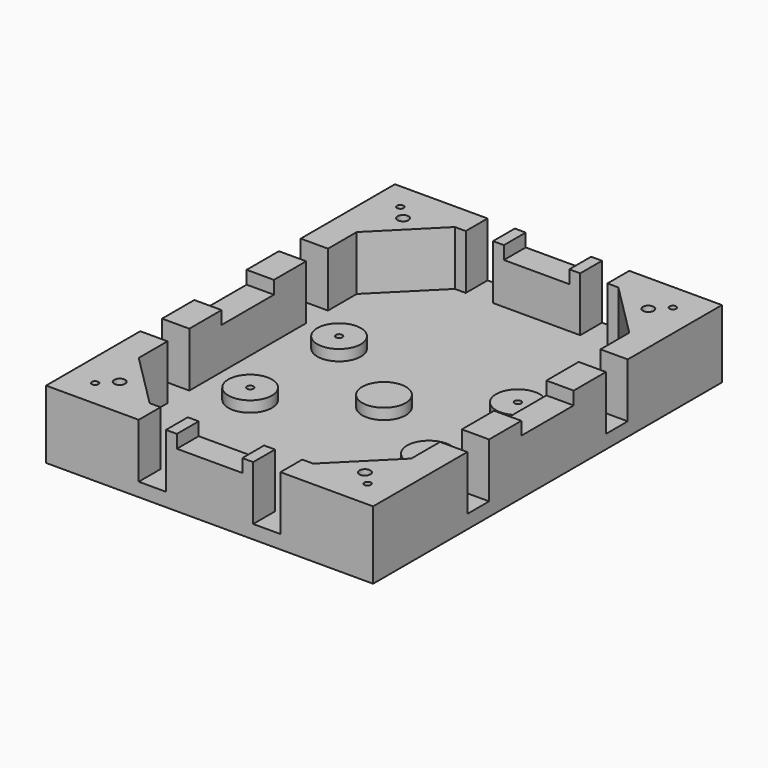
from build123d import *

# Parameters (mm, degrees)
F0_R     = 10
F0_R_2   = 1.5
F0_R_3   = 2.5
F0_W     = 30
F0_H     = 6.25
F0_W_2   = 6.25
F0_H_2   = 30
F0_H_3   = 18.5
F0_H_4   = 12.5
F0_W_3   = 12.5
F0_W_4   = 5
F1_DEPTH = 6.25
F2_DEPTH = 11.25
F3_DEPTH = 31.25
F4_DEPTH = 25.25


with BuildPart() as f1:
    # F0 (on Top) → F1 (new body)
    with BuildSketch(Plane.XY):
        Polygon((-20, 87.5), (-32.5, 87.5), (-37.5, 87.5), (-62.5, 62.5), (-62.5, 46), (-62.5, 33.5), (-62.5, 15), (-62.5, -15), (-62.5, -33.5), (-62.5, -46), (-62.5, -62.5), (-37.5, -87.5), (-32.5, -87.5), (-20, -87.5), (-15, -87.5), (15, -87.5), (20, -87.5), (32.5, -87.5), (37.5, -87.5), (62.5, -62.5), (62.5, -46), (62.5, -33.5), (62.5, -15), (62.5, 15), (62.5, 33.5), (62.5, 46), (62.5, 62.5), (37.5, 87.5), (32.5, 87.5), (20, 87.5), (15, 87.5), (-15, 87.5), align=None)
        with Locations((-41, -25.5)):
            Circle(F0_R, mode=Mode.SUBTRACT)
        with Locations((41, -25.5)):
            Circle(F0_R, mode=Mode.SUBTRACT)
        with Locations((-41, 25.5)):
            Circle(F0_R, mode=Mode.SUBTRACT)
        Circle(F0_R, mode=Mode.SUBTRACT)
        with Locations((41, 25.5)):
            Circle(F0_R, mode=Mode.SUBTRACT)
        Polygon((75, -100), (75, -46), (68.75, -46), (68.75, -93.75), (32.5, -93.75), (32.5, -100), align=None)
        Polygon((75, 100), (32.5, 100), (32.5, 93.75), (68.75, 93.75), (68.75, 46), (75, 46), align=None)
        Polygon((-32.5, 100), (-75, 100), (-75, 46), (-68.75, 46), (-68.75, 93.75), (-32.5, 93.75), align=None)
        Polygon((-68.75, -46), (-75, -46), (-75, -100), (-32.5, -100), (-32.5, -93.75), (-68.75, -93.75), align=None)
        with BuildLine():
            Line((-32.5, 87.5), (-32.5, 93.75))
            Line((-32.5, 93.75), (-68.75, 93.75))
            Line((-68.75, 93.75), (-68.75, 46))
            Line((-68.75, 46), (-62.5, 46))
            Line((-62.5, 46), (-62.5, 62.5))
            Line((-62.5, 62.5), (-62.5, 86))
            ThreePointArc((-62.5, 86), (-63.5606601718, 88.5606601718), (-61, 87.5))
            Line((-61, 87.5), (-37.5, 87.5))
            Line((-37.5, 87.5), (-32.5, 87.5))
        make_face()
        with BuildLine():
            Line((-62.5, -46), (-68.75, -46))
            Line((-68.75, -46), (-68.75, -93.75))
            Line((-68.75, -93.75), (-32.5, -93.75))
            Line((-32.5, -93.75), (-32.5, -87.5))
            Line((-32.5, -87.5), (-37.5, -87.5))
            Line((-37.5, -87.5), (-61, -87.5))
            ThreePointArc((-61, -87.5), (-63.5606601718, -88.5606601718), (-62.5, -86))
            Line((-62.5, -86), (-62.5, -62.5))
            Line((-62.5, -62.5), (-62.5, -46))
        make_face()
        with BuildLine():
            Line((68.75, 93.75), (32.5, 93.75))
            Line((32.5, 93.75), (32.5, 87.5))
            Line((32.5, 87.5), (37.5, 87.5))
            Line((37.5, 87.5), (61, 87.5))
            ThreePointArc((61, 87.5), (62.5, 89), (64, 87.5))
            ThreePointArc((64, 87.5), (63.5606601718, 86.4393398282), (62.5, 86))
            Line((62.5, 86), (62.5, 62.5))
            Line((62.5, 62.5), (62.5, 46))
            Line((62.5, 46), (68.75, 46))
            Line((68.75, 46), (68.75, 93.75))
        make_face()
        with BuildLine():
            Line((68.75, -93.75), (68.75, -46))
            Line((68.75, -46), (62.5, -46))
            Line((62.5, -46), (62.5, -62.5))
            Line((62.5, -62.5), (62.5, -86))
            ThreePointArc((62.5, -86), (63.5606601718, -86.4393398282), (64, -87.5))
            ThreePointArc((64, -87.5), (62.5, -89), (61, -87.5))
            Line((61, -87.5), (37.5, -87.5))
            Line((37.5, -87.5), (32.5, -87.5))
            Line((32.5, -87.5), (32.5, -93.75))
            Line((32.5, -93.75), (68.75, -93.75))
        make_face()
        with Locations((41, -25.5)):
            Circle(F0_R)
        with Locations((41, -25.5)):
            Circle(F0_R_2, mode=Mode.SUBTRACT)
        with Locations((-41, -25.5)):
            Circle(F0_R)
        with Locations((-41, -25.5)):
            Circle(F0_R_2, mode=Mode.SUBTRACT)
        with Locations((-41, 25.5)):
            Circle(F0_R)
        with Locations((-41, 25.5)):
            Circle(F0_R_2, mode=Mode.SUBTRACT)
        with Locations((41, 25.5)):
            Circle(F0_R)
        with Locations((41, 25.5)):
            Circle(F0_R_2, mode=Mode.SUBTRACT)
        Circle(F0_R)
        with BuildLine():
            Line((62.5, -86), (62.5, -62.5))
            Line((62.5, -62.5), (37.5, -87.5))
            Line((37.5, -87.5), (61, -87.5))
            ThreePointArc((61, -87.5), (61.4393398282, -86.4393398282), (62.5, -86))
        make_face()
        with Locations((56.25, -81.25)):
            Circle(F0_R_3, mode=Mode.SUBTRACT)
        with BuildLine():
            Line((-37.5, -87.5), (-62.5, -62.5))
            Line((-62.5, -62.5), (-62.5, -86))
            ThreePointArc((-62.5, -86), (-61.4393398282, -86.4393398282), (-61, -87.5))
            Line((-61, -87.5), (-37.5, -87.5))
        make_face()
        with Locations((-56.25, -81.25)):
            Circle(F0_R_3, mode=Mode.SUBTRACT)
        with BuildLine():
            Line((61, 87.5), (37.5, 87.5))
            Line((37.5, 87.5), (62.5, 62.5))
            Line((62.5, 62.5), (62.5, 86))
            ThreePointArc((62.5, 86), (61.4393398282, 86.4393398282), (61, 87.5))
        make_face()
        with Locations((56.25, 81.25)):
            Circle(F0_R_3, mode=Mode.SUBTRACT)
        with BuildLine():
            Line((-62.5, 62.5), (-37.5, 87.5))
            Line((-37.5, 87.5), (-61, 87.5))
            ThreePointArc((-61, 87.5), (-61.4393398282, 86.4393398282), (-62.5, 86))
            Line((-62.5, 86), (-62.5, 62.5))
        make_face()
        with Locations((-56.25, 81.25)):
            Circle(F0_R_3, mode=Mode.SUBTRACT)
        with Locations((0, -90.625)):
            Rectangle(F0_W, F0_H)
        with Locations((-71.875, 0)):
            Rectangle(F0_W_2, F0_H_2)
        with Locations((71.875, 0)):
            Rectangle(F0_W_2, F0_H_2)
        with Locations((0, 90.625)):
            Rectangle(F0_W, F0_H)
        with Locations((-65.625, 0)):
            Rectangle(F0_W_2, F0_H_2)
        with Locations((0, -96.875)):
            Rectangle(F0_W, F0_H)
        with Locations((65.625, 0)):
            Rectangle(F0_W_2, F0_H_2)
        with Locations((0, 96.875)):
            Rectangle(F0_W, F0_H)
        with Locations((71.875, -24.25)):
            Rectangle(F0_W_2, F0_H_3)
        with Locations((-71.875, 24.25)):
            Rectangle(F0_W_2, F0_H_3)
        with Locations((-65.625, -24.25)):
            Rectangle(F0_W_2, F0_H_3)
        with Locations((65.625, -24.25)):
            Rectangle(F0_W_2, F0_H_3)
        with Locations((65.625, 24.25)):
            Rectangle(F0_W_2, F0_H_3)
        with Locations((71.875, 24.25)):
            Rectangle(F0_W_2, F0_H_3)
        with Locations((-71.875, -24.25)):
            Rectangle(F0_W_2, F0_H_3)
        with Locations((-65.625, 24.25)):
            Rectangle(F0_W_2, F0_H_3)
        with Locations((-71.875, 39.75)):
            Rectangle(F0_W_2, F0_H_4)
        with Locations((-71.875, -39.75)):
            Rectangle(F0_W_2, F0_H_4)
        with Locations((26.25, 96.875)):
            Rectangle(F0_W_3, F0_H)
        with Locations((-26.25, -96.875)):
            Rectangle(F0_W_3, F0_H)
        with Locations((-26.25, 90.625)):
            Rectangle(F0_W_3, F0_H)
        with Locations((-65.625, -39.75)):
            Rectangle(F0_W_2, F0_H_4)
        with Locations((-26.25, -90.625)):
            Rectangle(F0_W_3, F0_H)
        with Locations((-65.625, 39.75)):
            Rectangle(F0_W_2, F0_H_4)
        with Locations((65.625, 39.75)):
            Rectangle(F0_W_2, F0_H_4)
        with Locations((26.25, -96.875)):
            Rectangle(F0_W_3, F0_H)
        with Locations((26.25, 90.625)):
            Rectangle(F0_W_3, F0_H)
        with Locations((71.875, -39.75)):
            Rectangle(F0_W_2, F0_H_4)
        with Locations((26.25, -90.625)):
            Rectangle(F0_W_3, F0_H)
        with Locations((-26.25, 96.875)):
            Rectangle(F0_W_3, F0_H)
        with Locations((65.625, -39.75)):
            Rectangle(F0_W_2, F0_H_4)
        with Locations((71.875, 39.75)):
            Rectangle(F0_W_2, F0_H_4)
        with Locations((-17.5, -96.875)):
            Rectangle(F0_W_4, F0_H)
        with Locations((17.5, 96.875)):
            Rectangle(F0_W_4, F0_H)
        with Locations((-17.5, -90.625)):
            Rectangle(F0_W_4, F0_H)
        with Locations((-17.5, 90.625)):
            Rectangle(F0_W_4, F0_H)
        with Locations((17.5, -90.625)):
            Rectangle(F0_W_4, F0_H)
        with Locations((-17.5, 96.875)):
            Rectangle(F0_W_4, F0_H)
        with Locations((17.5, 90.625)):
            Rectangle(F0_W_4, F0_H)
        with Locations((17.5, -96.875)):
            Rectangle(F0_W_4, F0_H)
        with Locations((56.25, -81.25)):
            Circle(F0_R_3)
        with Locations((-56.25, -81.25)):
            Circle(F0_R_3)
        with Locations((-56.25, 81.25)):
            Circle(F0_R_3)
        with Locations((56.25, 81.25)):
            Circle(F0_R_3)
        with Locations((-41, 25.5)):
            Circle(F0_R_2)
        with Locations((-41, -25.5)):
            Circle(F0_R_2)
        with Locations((41, 25.5)):
            Circle(F0_R_2)
        with Locations((41, -25.5)):
            Circle(F0_R_2)
        with BuildLine():
            ThreePointArc((64, 87.5), (62.5, 89), (61, 87.5))
            Line((61, 87.5), (62.5, 87.5))
            Line((62.5, 87.5), (62.5, 86))
            ThreePointArc((62.5, 86), (63.5606601718, 86.4393398282), (64, 87.5))
        make_face()
        with BuildLine():
            Line((-62.5, 87.5), (-61, 87.5))
            ThreePointArc((-61, 87.5), (-63.5606601718, 88.5606601718), (-62.5, 86))
            Line((-62.5, 86), (-62.5, 87.5))
        make_face()
        with BuildLine():
            ThreePointArc((64, -87.5), (63.5606601718, -86.4393398282), (62.5, -86))
            Line((62.5, -86), (62.5, -87.5))
            Line((62.5, -87.5), (61, -87.5))
            ThreePointArc((61, -87.5), (62.5, -89), (64, -87.5))
        make_face()
        with BuildLine():
            Line((-62.5, -87.5), (-62.5, -86))
            ThreePointArc((-62.5, -86), (-63.5606601718, -88.5606601718), (-61, -87.5))
            Line((-61, -87.5), (-62.5, -87.5))
        make_face()
        with BuildLine():
            ThreePointArc((-62.5, 86), (-61.4393398282, 86.4393398282), (-61, 87.5))
            Line((-61, 87.5), (-62.5, 87.5))
            Line((-62.5, 87.5), (-62.5, 86))
        make_face()
        with BuildLine():
            Line((62.5, -87.5), (62.5, -86))
            ThreePointArc((62.5, -86), (61.4393398282, -86.4393398282), (61, -87.5))
            Line((61, -87.5), (62.5, -87.5))
        make_face()
        with BuildLine():
            ThreePointArc((-61, -87.5), (-61.4393398282, -86.4393398282), (-62.5, -86))
            Line((-62.5, -86), (-62.5, -87.5))
            Line((-62.5, -87.5), (-61, -87.5))
        make_face()
        with BuildLine():
            Line((62.5, 87.5), (61, 87.5))
            ThreePointArc((61, 87.5), (61.4393398282, 86.4393398282), (62.5, 86))
            Line((62.5, 86), (62.5, 87.5))
        make_face()
    extrude(amount=F1_DEPTH)

    # F0 (on Top) → F2 (join)
    with BuildSketch(Plane.XY):
        with Locations((-41, 25.5)):
            Circle(F0_R)
        with Locations((-41, 25.5)):
            Circle(F0_R_2, mode=Mode.SUBTRACT)
        with Locations((41, 25.5)):
            Circle(F0_R)
        with Locations((41, 25.5)):
            Circle(F0_R_2, mode=Mode.SUBTRACT)
        Circle(F0_R)
        with Locations((41, -25.5)):
            Circle(F0_R)
        with Locations((41, -25.5)):
            Circle(F0_R_2, mode=Mode.SUBTRACT)
        with Locations((-41, -25.5)):
            Circle(F0_R)
        with Locations((-41, -25.5)):
            Circle(F0_R_2, mode=Mode.SUBTRACT)
    extrude(amount=F2_DEPTH)

    # F0 (on Top) → F3 (join)
    with BuildSketch(Plane.XY):
        Polygon((-32.5, 100), (-75, 100), (-75, 46), (-68.75, 46), (-68.75, 93.75), (-32.5, 93.75), align=None)
        with BuildLine():
            Line((-32.5, 87.5), (-32.5, 93.75))
            Line((-32.5, 93.75), (-68.75, 93.75))
            Line((-68.75, 93.75), (-68.75, 46))
            Line((-68.75, 46), (-62.5, 46))
            Line((-62.5, 46), (-62.5, 62.5))
            Line((-62.5, 62.5), (-62.5, 86))
            ThreePointArc((-62.5, 86), (-63.5606601718, 88.5606601718), (-61, 87.5))
            Line((-61, 87.5), (-37.5, 87.5))
            Line((-37.5, 87.5), (-32.5, 87.5))
        make_face()
        with Locations((-71.875, 24.25)):
            Rectangle(F0_W_2, F0_H_3)
        with Locations((-65.625, 24.25)):
            Rectangle(F0_W_2, F0_H_3)
        with Locations((-71.875, -24.25)):
            Rectangle(F0_W_2, F0_H_3)
        with Locations((-65.625, -24.25)):
            Rectangle(F0_W_2, F0_H_3)
        Polygon((-68.75, -46), (-75, -46), (-75, -100), (-32.5, -100), (-32.5, -93.75), (-68.75, -93.75), align=None)
        with BuildLine():
            Line((-62.5, -46), (-68.75, -46))
            Line((-68.75, -46), (-68.75, -93.75))
            Line((-68.75, -93.75), (-32.5, -93.75))
            Line((-32.5, -93.75), (-32.5, -87.5))
            Line((-32.5, -87.5), (-37.5, -87.5))
            Line((-37.5, -87.5), (-61, -87.5))
            ThreePointArc((-61, -87.5), (-63.5606601718, -88.5606601718), (-62.5, -86))
            Line((-62.5, -86), (-62.5, -62.5))
            Line((-62.5, -62.5), (-62.5, -46))
        make_face()
        with BuildLine():
            Line((-37.5, -87.5), (-62.5, -62.5))
            Line((-62.5, -62.5), (-62.5, -86))
            ThreePointArc((-62.5, -86), (-61.4393398282, -86.4393398282), (-61, -87.5))
            Line((-61, -87.5), (-37.5, -87.5))
        make_face()
        with Locations((-56.25, -81.25)):
            Circle(F0_R_3, mode=Mode.SUBTRACT)
        with Locations((-17.5, -90.625)):
            Rectangle(F0_W_4, F0_H)
        with Locations((-17.5, -96.875)):
            Rectangle(F0_W_4, F0_H)
        with Locations((17.5, -96.875)):
            Rectangle(F0_W_4, F0_H)
        with Locations((17.5, -90.625)):
            Rectangle(F0_W_4, F0_H)
        with BuildLine():
            Line((68.75, -93.75), (68.75, -46))
            Line((68.75, -46), (62.5, -46))
            Line((62.5, -46), (62.5, -62.5))
            Line((62.5, -62.5), (62.5, -86))
            ThreePointArc((62.5, -86), (63.5606601718, -86.4393398282), (64, -87.5))
            ThreePointArc((64, -87.5), (62.5, -89), (61, -87.5))
            Line((61, -87.5), (37.5, -87.5))
            Line((37.5, -87.5), (32.5, -87.5))
            Line((32.5, -87.5), (32.5, -93.75))
            Line((32.5, -93.75), (68.75, -93.75))
        make_face()
        Polygon((75, -100), (75, -46), (68.75, -46), (68.75, -93.75), (32.5, -93.75), (32.5, -100), align=None)
        with BuildLine():
            Line((62.5, -86), (62.5, -62.5))
            Line((62.5, -62.5), (37.5, -87.5))
            Line((37.5, -87.5), (61, -87.5))
            ThreePointArc((61, -87.5), (61.4393398282, -86.4393398282), (62.5, -86))
        make_face()
        with Locations((56.25, -81.25)):
            Circle(F0_R_3, mode=Mode.SUBTRACT)
        with Locations((71.875, -24.25)):
            Rectangle(F0_W_2, F0_H_3)
        with Locations((65.625, -24.25)):
            Rectangle(F0_W_2, F0_H_3)
        with Locations((65.625, 24.25)):
            Rectangle(F0_W_2, F0_H_3)
        with Locations((71.875, 24.25)):
            Rectangle(F0_W_2, F0_H_3)
        with BuildLine():
            Line((68.75, 93.75), (32.5, 93.75))
            Line((32.5, 93.75), (32.5, 87.5))
            Line((32.5, 87.5), (37.5, 87.5))
            Line((37.5, 87.5), (61, 87.5))
            ThreePointArc((61, 87.5), (62.5, 89), (64, 87.5))
            ThreePointArc((64, 87.5), (63.5606601718, 86.4393398282), (62.5, 86))
            Line((62.5, 86), (62.5, 62.5))
            Line((62.5, 62.5), (62.5, 46))
            Line((62.5, 46), (68.75, 46))
            Line((68.75, 46), (68.75, 93.75))
        make_face()
        Polygon((75, 100), (32.5, 100), (32.5, 93.75), (68.75, 93.75), (68.75, 46), (75, 46), align=None)
        with BuildLine():
            Line((61, 87.5), (37.5, 87.5))
            Line((37.5, 87.5), (62.5, 62.5))
            Line((62.5, 62.5), (62.5, 86))
            ThreePointArc((62.5, 86), (61.4393398282, 86.4393398282), (61, 87.5))
        make_face()
        with Locations((56.25, 81.25)):
            Circle(F0_R_3, mode=Mode.SUBTRACT)
        with Locations((17.5, 90.625)):
            Rectangle(F0_W_4, F0_H)
        with Locations((17.5, 96.875)):
            Rectangle(F0_W_4, F0_H)
        with Locations((-17.5, 96.875)):
            Rectangle(F0_W_4, F0_H)
        with Locations((-17.5, 90.625)):
            Rectangle(F0_W_4, F0_H)
        with BuildLine():
            Line((-62.5, 62.5), (-37.5, 87.5))
            Line((-37.5, 87.5), (-61, 87.5))
            ThreePointArc((-61, 87.5), (-61.4393398282, 86.4393398282), (-62.5, 86))
            Line((-62.5, 86), (-62.5, 62.5))
        make_face()
        with Locations((-56.25, 81.25)):
            Circle(F0_R_3, mode=Mode.SUBTRACT)
    extrude(amount=F3_DEPTH)

    # F0 (on Top) → F4 (join)
    with BuildSketch(Plane.XY):
        with Locations((0, 96.875)):
            Rectangle(F0_W, F0_H)
        with Locations((0, 90.625)):
            Rectangle(F0_W, F0_H)
        with Locations((71.875, 0)):
            Rectangle(F0_W_2, F0_H_2)
        with Locations((65.625, 0)):
            Rectangle(F0_W_2, F0_H_2)
        with Locations((-65.625, 0)):
            Rectangle(F0_W_2, F0_H_2)
        with Locations((-71.875, 0)):
            Rectangle(F0_W_2, F0_H_2)
        with Locations((0, -90.625)):
            Rectangle(F0_W, F0_H)
        with Locations((0, -96.875)):
            Rectangle(F0_W, F0_H)
    extrude(amount=F4_DEPTH)


solid = f1.part
